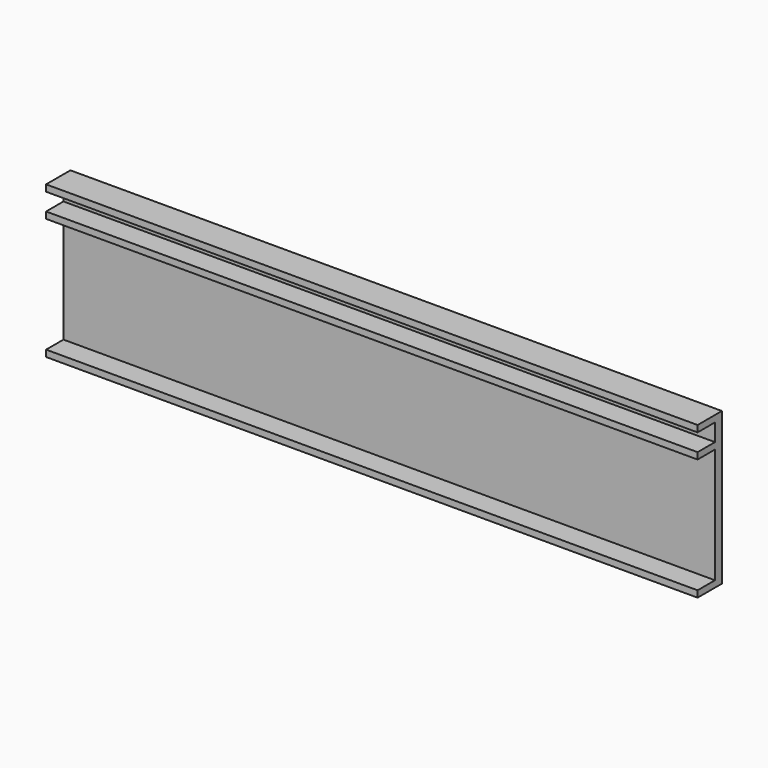
from build123d import *

# Parameters (mm, degrees)
F0_W     = 381
F0_H     = 88.9
F1_DEPTH = 5.08
F2_W     = 381
F2_H     = 3.81
F3_DEPTH = 12.7
F4_W     = 381
F4_H     = 3.81
F5_DEPTH = 12.7


with BuildPart() as f1:
    # F0 (on Front) → F1 (new body)
    with BuildSketch(Plane.XZ):
        Rectangle(F0_W, F0_H)
    extrude(amount=F1_DEPTH)

    # F2 (on face) → F3 (join)
    with BuildSketch(Plane.XZ.offset(5.08)):
        with Locations((0, 42.545)):
            Rectangle(F2_W, F2_H)
        with Locations((0, -42.545)):
            Rectangle(F2_W, F2_H)
    extrude(amount=F3_DEPTH)

    # F4 (on face) → F5 (join)
    with BuildSketch(Plane.XZ.offset(5.08)):
        with Locations((0, 28.575)):
            Rectangle(F4_W, F4_H)
    extrude(amount=F5_DEPTH)


solid = f1.part
